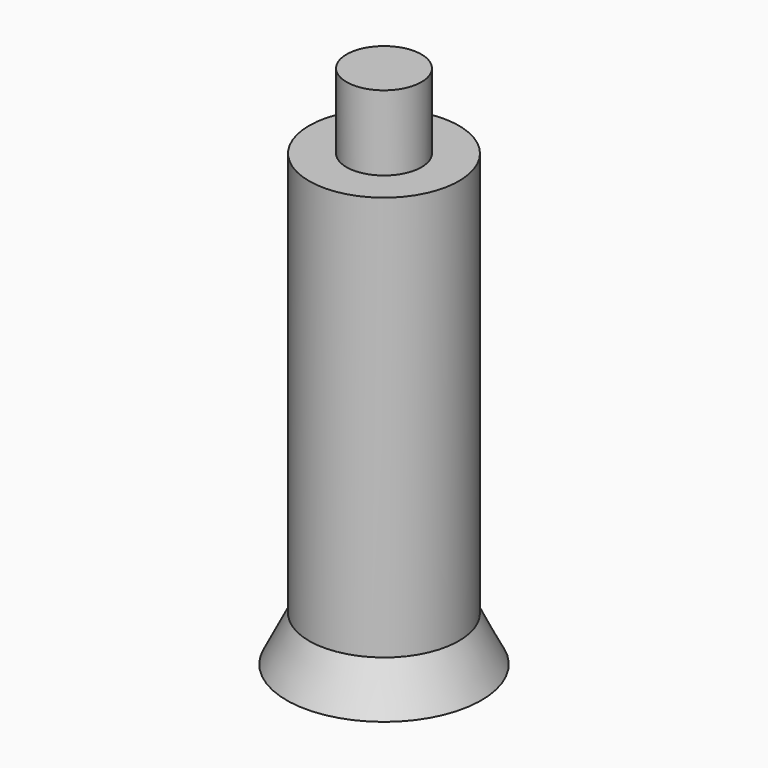
from build123d import *

# Parameters (mm, degrees)
CYLINDER_R              = 10
CYLINDER_DEPTH          = 60
CYLINDER001_R           = 5
CYLINDER001_DEPTH       = 10
CYLINDER002_R           = 6
CYLINDER002_DEPTH       = 38
BODY002_PLACEMENT_ANGLE = 90


with BuildPart() as part:
    # Cylinder → Cylinder (join)
    with BuildSketch(Plane(origin=(10, 0, -127), x_dir=(0, 1, 0), z_dir=(0, 0, 1))):
        Circle(CYLINDER_R)
    extrude(amount=CYLINDER_DEPTH)

    # Cone003 → Cone003 (revolve)
    with BuildSketch(Plane(origin=(10, 0, -127), x_dir=(1, 0, 0), z_dir=(0, -1, 0))):
        Polygon((0, 0), (13, 0), (0, 26), align=None)
    revolve(axis=Axis((10, 0, -127), (0, 0, 1)))

    # Cylinder001 → Cylinder001 (join)
    with BuildSketch(Plane(origin=(10, 0, -67), x_dir=(1, 0, 0), z_dir=(0, 0, 1))):
        Circle(CYLINDER001_R)
    extrude(amount=CYLINDER001_DEPTH)

    # Cylinder002 → Cylinder002 (cut)
    with BuildSketch(Plane(origin=(10, 0, -127), x_dir=(1, 0, 0), z_dir=(0, 0, 1))):
        Circle(CYLINDER002_R)
    extrude(amount=CYLINDER002_DEPTH, mode=Mode.SUBTRACT)

    # Cone → Cone (revolve, cut)
    with BuildSketch(Plane(origin=(10, 0, -89), x_dir=(1, 0, 0), z_dir=(0, -1, 0))):
        Polygon((0, 0), (6, 0), (0, 12), align=None)
    revolve(axis=Axis((10, 0, -89), (0, 0, 1)), mode=Mode.SUBTRACT)


with BuildPart() as part_1:
    # Body002 placement: moved
    add(part.part.moved(Location((10, 0, -61))).rotate(Axis((10, 0, -61), (0, 0, 1)), BODY002_PLACEMENT_ANGLE))


solid = part_1.part
